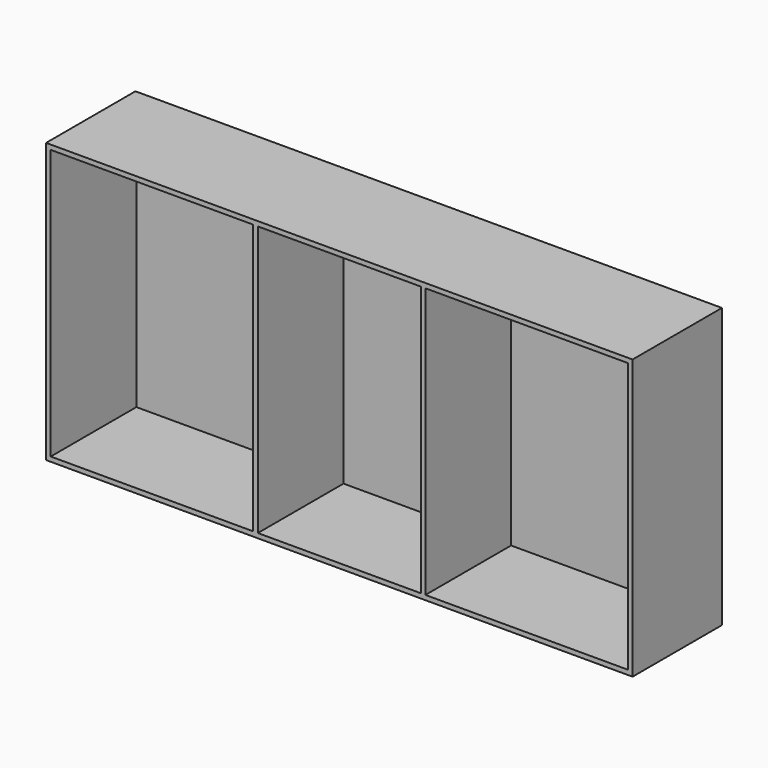
from build123d import *

# Parameters (mm, degrees)
F0_W     = 1600.2
F0_H     = 762
F1_DEPTH = 304.8
F2_T     = -12.7
F3_W     = 12.7
F3_H     = 736.6
F4_DEPTH = 292.1


with BuildPart() as f1:
    # F0 (on Front) → F1 (new body)
    with BuildSketch(Plane.XZ):
        Rectangle(F0_W, F0_H)
    extrude(amount=-F1_DEPTH)

    # F2
    f2_openings = [f1.faces().sort_by_distance(p)[0] for p in [
        (0, 0, 0),
    ]]
    offset(amount=F2_T, openings=f2_openings)

    # F3 (on face) → F4 (join)
    with BuildSketch(Plane.XZ.offset(-292.1)):
        with Locations((-228.6, 0)):
            Rectangle(F3_W, F3_H)
        with Locations((228.6, 0)):
            Rectangle(F3_W, F3_H)
    extrude(amount=F4_DEPTH)


solid = f1.part
